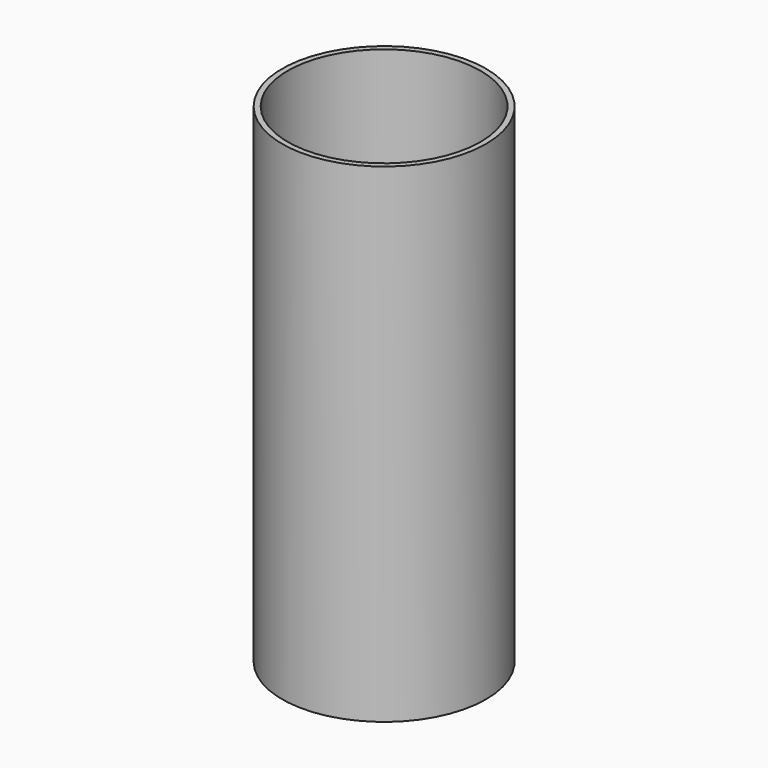
from build123d import *

# Parameters (mm, degrees)
F0_R     = 37
F1_DEPTH = 2.5
F2_R     = 37
F2_R_2   = 35
F3_DEPTH = 175


with BuildPart() as f1:
    # F0 (on Top) → F1 (new body)
    with BuildSketch(Plane.XY):
        Circle(F0_R)
        with BuildLine():
            Line((32.982701, -3.842347), (27.482701, -3.842347))
            ThreePointArc((27.482701, -3.842347), (-0.110238, -27.749781), (-27.512361, -3.623876))
            Line((-27.512361, -3.623876), (-32.939691, -3.623876))
            Line((-32.939691, -3.623876), (-32.939691, 3.876124))
            Line((-32.939691, 3.876124), (-27.477958, 3.876124))
            ThreePointArc((-27.477958, 3.876124), (0.110256, 27.749781), (27.507891, 3.657653))
            Line((27.507891, 3.657653), (32.982701, 3.657653))
            Line((32.982701, 3.657653), (32.982701, -3.842347))
        make_face(mode=Mode.SUBTRACT)
    extrude(amount=F1_DEPTH)

    # F2 (on face) → F3 (join)
    with BuildSketch(Plane.XY.offset(2.5)):
        Circle(F2_R)
        Circle(F2_R_2, mode=Mode.SUBTRACT)
    extrude(amount=F3_DEPTH)


solid = f1.part
